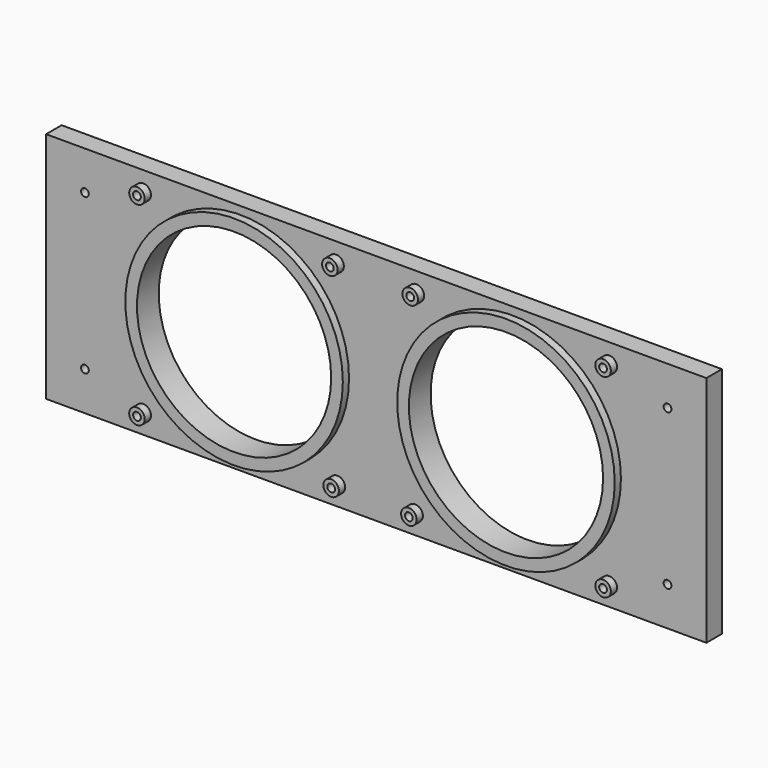
from build123d import *

# Parameters (mm, degrees)
F0_W     = 170.0022
F0_H     = 60
F0_R     = 2
F0_R_2   = 1
F0_R_3   = 28
F0_R_4   = 25
F1_DEPTH = 5
F2_DEPTH = 7
F3_DEPTH = 3
F4_DEPTH = 7
F5_START = 2
F5_DEPTH = 3


with BuildPart() as f1:
    # F0 (on Front) → F1 (new body)
    with BuildSketch(Plane.XZ):
        with Locations((63.8357337121, -49.967572093)):
            Rectangle(F0_W, F0_H)
        with Locations((3.8346337121, -74.967572093)):
            Circle(F0_R, mode=Mode.SUBTRACT)
        with Locations((-11.1653662879, -69.967572093)):
            Circle(F0_R_2, mode=Mode.SUBTRACT)
        with Locations((53.8346337121, -74.967572093)):
            Circle(F0_R, mode=Mode.SUBTRACT)
        with Locations((73.8368337121, -74.967572093)):
            Circle(F0_R, mode=Mode.SUBTRACT)
        with Locations((123.8368337121, -74.967572093)):
            Circle(F0_R, mode=Mode.SUBTRACT)
        with Locations((138.8368337121, -69.967572093)):
            Circle(F0_R_2, mode=Mode.SUBTRACT)
        with Locations((98.8368337121, -49.967572093)):
            Circle(F0_R_3, mode=Mode.SUBTRACT)
        with Locations((28.8346337121, -49.967572093)):
            Circle(F0_R_3, mode=Mode.SUBTRACT)
        with Locations((-11.1653662879, -29.967572093)):
            Circle(F0_R_2, mode=Mode.SUBTRACT)
        with Locations((3.8346337121, -24.967572093)):
            Circle(F0_R, mode=Mode.SUBTRACT)
        with Locations((53.4981064092, -24.967572093)):
            Circle(F0_R, mode=Mode.SUBTRACT)
        with Locations((74.1733610149, -24.967572093)):
            Circle(F0_R, mode=Mode.SUBTRACT)
        with Locations((138.8368337121, -29.967572093)):
            Circle(F0_R_2, mode=Mode.SUBTRACT)
        with Locations((123.8368337121, -24.967572093)):
            Circle(F0_R, mode=Mode.SUBTRACT)
        with Locations((28.8346337121, -49.967572093)):
            Circle(F0_R_3)
        with Locations((28.8346337121, -49.967572093)):
            Circle(F0_R_4, mode=Mode.SUBTRACT)
        with Locations((98.8368337121, -49.967572093)):
            Circle(F0_R_3)
        with Locations((98.8368337121, -49.967572093)):
            Circle(F0_R_4, mode=Mode.SUBTRACT)
        with Locations((3.8346337121, -74.967572093)):
            Circle(F0_R)
        with Locations((3.8346337121, -74.967572093)):
            Circle(F0_R_2, mode=Mode.SUBTRACT)
        with Locations((53.8346337121, -74.967572093)):
            Circle(F0_R)
        with Locations((53.8346337121, -74.967572093)):
            Circle(F0_R_2, mode=Mode.SUBTRACT)
        with Locations((73.8368337121, -74.967572093)):
            Circle(F0_R)
        with Locations((73.8368337121, -74.967572093)):
            Circle(F0_R_2, mode=Mode.SUBTRACT)
        with Locations((123.8368337121, -74.967572093)):
            Circle(F0_R)
        with Locations((123.8368337121, -74.967572093)):
            Circle(F0_R_2, mode=Mode.SUBTRACT)
        with Locations((123.8368337121, -24.967572093)):
            Circle(F0_R)
        with Locations((123.8368337121, -24.967572093)):
            Circle(F0_R_2, mode=Mode.SUBTRACT)
        with Locations((74.1733610149, -24.967572093)):
            Circle(F0_R)
        with Locations((74.1733610149, -24.967572093)):
            Circle(F0_R_2, mode=Mode.SUBTRACT)
        with Locations((53.4981064092, -24.967572093)):
            Circle(F0_R)
        with Locations((53.4981064092, -24.967572093)):
            Circle(F0_R_2, mode=Mode.SUBTRACT)
        with Locations((3.8346337121, -24.967572093)):
            Circle(F0_R)
        with Locations((3.8346337121, -24.967572093)):
            Circle(F0_R_2, mode=Mode.SUBTRACT)
        with Locations((-11.1653662879, -69.967572093)):
            Circle(F0_R_2)
        with Locations((3.8346337121, -74.967572093)):
            Circle(F0_R_2)
        with Locations((53.8346337121, -74.967572093)):
            Circle(F0_R_2)
        with Locations((73.8368337121, -74.967572093)):
            Circle(F0_R_2)
        with Locations((123.8368337121, -74.967572093)):
            Circle(F0_R_2)
        with Locations((138.8368337121, -69.967572093)):
            Circle(F0_R_2)
        with Locations((138.8368337121, -29.967572093)):
            Circle(F0_R_2)
        with Locations((123.8368337121, -24.967572093)):
            Circle(F0_R_2)
        with Locations((74.1733610149, -24.967572093)):
            Circle(F0_R_2)
        with Locations((53.4981064092, -24.967572093)):
            Circle(F0_R_2)
        with Locations((3.8346337121, -24.967572093)):
            Circle(F0_R_2)
        with Locations((-11.1653662879, -29.967572093)):
            Circle(F0_R_2)
    extrude(amount=F1_DEPTH)

    # F0 (on Front) → F2 (join)
    with BuildSketch(Plane.XZ):
        with Locations((3.8346337121, -24.967572093)):
            Circle(F0_R)
        with Locations((3.8346337121, -24.967572093)):
            Circle(F0_R_2, mode=Mode.SUBTRACT)
        with Locations((53.4981064092, -24.967572093)):
            Circle(F0_R)
        with Locations((53.4981064092, -24.967572093)):
            Circle(F0_R_2, mode=Mode.SUBTRACT)
        with Locations((74.1733610149, -24.967572093)):
            Circle(F0_R)
        with Locations((74.1733610149, -24.967572093)):
            Circle(F0_R_2, mode=Mode.SUBTRACT)
        with Locations((123.8368337121, -24.967572093)):
            Circle(F0_R)
        with Locations((123.8368337121, -24.967572093)):
            Circle(F0_R_2, mode=Mode.SUBTRACT)
        with Locations((123.8368337121, -74.967572093)):
            Circle(F0_R)
        with Locations((123.8368337121, -74.967572093)):
            Circle(F0_R_2, mode=Mode.SUBTRACT)
        with Locations((73.8368337121, -74.967572093)):
            Circle(F0_R)
        with Locations((73.8368337121, -74.967572093)):
            Circle(F0_R_2, mode=Mode.SUBTRACT)
        with Locations((53.8346337121, -74.967572093)):
            Circle(F0_R)
        with Locations((53.8346337121, -74.967572093)):
            Circle(F0_R_2, mode=Mode.SUBTRACT)
        with Locations((3.8346337121, -74.967572093)):
            Circle(F0_R)
        with Locations((3.8346337121, -74.967572093)):
            Circle(F0_R_2, mode=Mode.SUBTRACT)
    extrude(amount=F2_DEPTH)

    # F3 (cut): faces of the model
    f3_faces = [f1.faces().sort_by_distance(p)[0] for p in [
        (53.8346337121, -5, -74.967572093),
        (73.8368337121, -5, -74.967572093),
        (3.8346337121, -5, -74.967572093),
        (3.8346337121, -5, -24.967572093),
        (53.4981064092, -5, -24.967572093),
        (74.1733610149, -5, -24.967572093),
        (123.8368337121, -5, -24.967572093),
        (123.8368337121, -5, -74.967572093),
    ]]
    extrude(f3_faces, amount=-F3_DEPTH, mode=Mode.SUBTRACT)

    # F0 (on Front) → F4 (join)
    with BuildSketch(Plane.XZ):
        with Locations((98.8368337121, -49.967572093)):
            Circle(F0_R_3)
        with Locations((98.8368337121, -49.967572093)):
            Circle(F0_R_4, mode=Mode.SUBTRACT)
        with Locations((28.8346337121, -49.967572093)):
            Circle(F0_R_3)
        with Locations((28.8346337121, -49.967572093)):
            Circle(F0_R_4, mode=Mode.SUBTRACT)
    extrude(amount=F4_DEPTH)

    # F0 (on Front) → F5 (cut)
    with BuildSketch(Plane.XZ.offset(F5_START)):
        with Locations((-11.1653662879, -29.967572093)):
            Circle(F0_R_2)
        with Locations((138.8368337121, -29.967572093)):
            Circle(F0_R_2)
        with Locations((138.8368337121, -69.967572093)):
            Circle(F0_R_2)
        with Locations((-11.1653662879, -69.967572093)):
            Circle(F0_R_2)
    extrude(amount=F5_DEPTH, mode=Mode.SUBTRACT)


solid = f1.part
